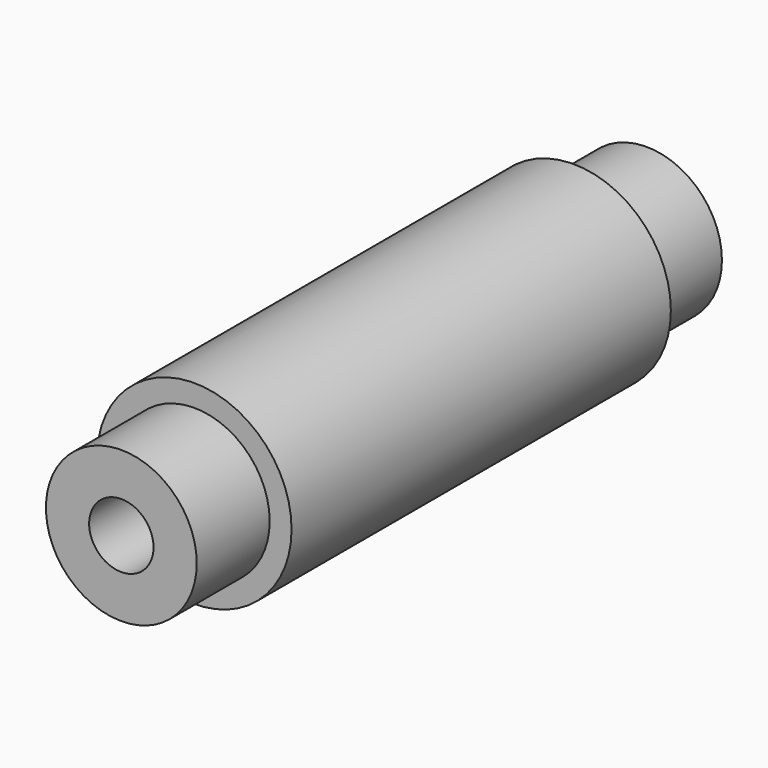
from build123d import *

# Parameters (mm, degrees)
F0_R     = 4.135
F0_R_2   = 1.765
F1_DEPTH = 36
F3_R     = 5.335
F4_DEPTH = 26


with BuildPart() as f1:
    # F0 (on Front) → F1 (new body)
    with BuildSketch(Plane.XZ):
        Circle(F0_R)
        Circle(F0_R_2, mode=Mode.SUBTRACT)
    extrude(amount=F1_DEPTH)

    # F3 (on offset) → F4 (join)
    with BuildSketch(Plane.XZ.offset(5)):
        Circle(F3_R)
    extrude(amount=F4_DEPTH)


solid = f1.part
